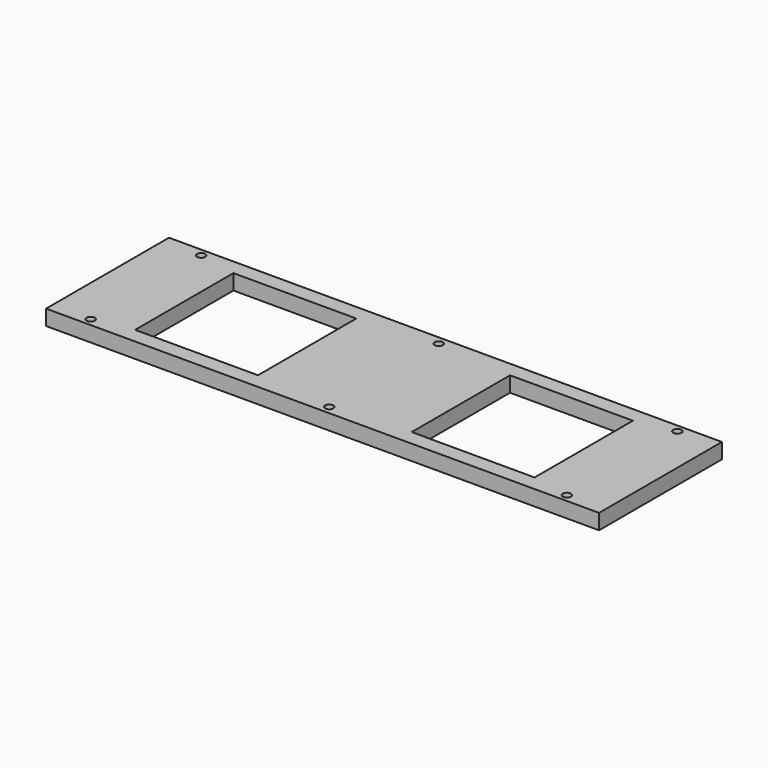
from build123d import *

# Parameters (mm, degrees)
F0_W     = 540
F0_H     = 150
F0_R     = 4
F0_W_2   = 120
F0_H_2   = 120
F1_DEPTH = 15


with BuildPart() as f1:
    # F0 (on Top) → F1 (new body)
    with BuildSketch(Plane.XY):
        with Locations((270, -75)):
            Rectangle(F0_W, F0_H)
        with Locations((37.449412, -142.458765)):
            Circle(F0_R, mode=Mode.SUBTRACT)
        with Locations((270, -141.832436)):
            Circle(F0_R, mode=Mode.SUBTRACT)
        with Locations((502.550588, -142.458765)):
            Circle(F0_R, mode=Mode.SUBTRACT)
        with Locations((134.932024, -75)):
            Rectangle(F0_W_2, F0_H_2, mode=Mode.SUBTRACT)
        with Locations((37.449412, -7.541235)):
            Circle(F0_R, mode=Mode.SUBTRACT)
        with Locations((405.067976, -75)):
            Rectangle(F0_W_2, F0_H_2, mode=Mode.SUBTRACT)
        with Locations((270, -8.167564)):
            Circle(F0_R, mode=Mode.SUBTRACT)
        with Locations((502.550588, -7.541235)):
            Circle(F0_R, mode=Mode.SUBTRACT)
    extrude(amount=F1_DEPTH)


solid = f1.part
